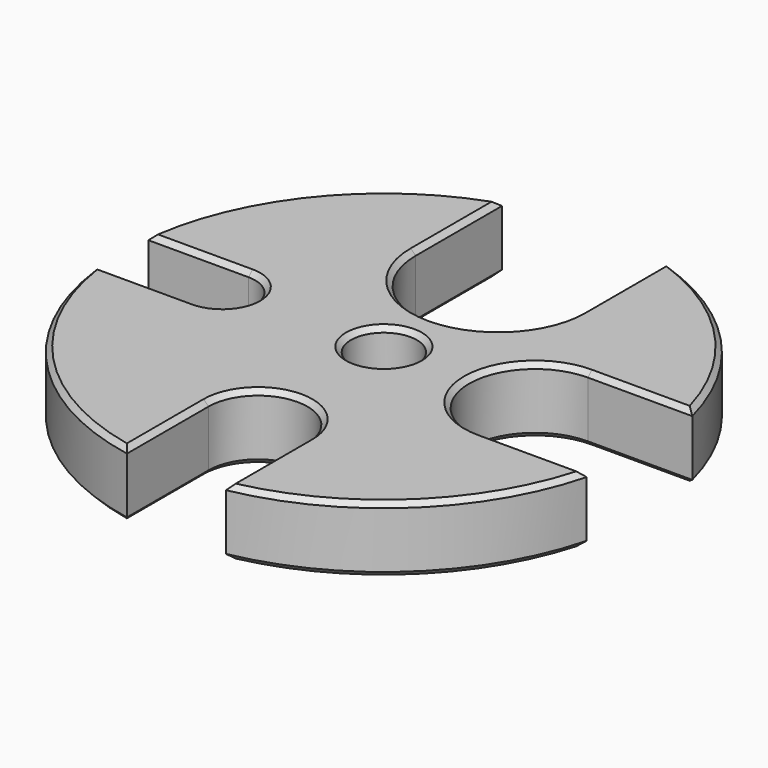
from build123d import *

# Parameters (mm, degrees)
F0_R     = 12.7
F1_DEPTH = 25.4
F2_SIZE2 = 1.905
F2_SIZE  = 1.905


with BuildPart() as f1:
    # F0 (on Top) → F1 (new body)
    with BuildSketch(Plane.XY):
        with BuildLine():
            Line((-31.75, 54.992613), (-31.75, 96.511644))
            ThreePointArc((-31.75, 96.511644), (-78.413523, 64.605567), (-100.803125, 12.7))
            Line((-100.803125, 12.7), (-62.217039, 12.7))
            ThreePointArc((-62.217039, 12.7), (-49.517039, 0), (-62.217039, -12.7))
            Line((-62.217039, -12.7), (-100.803125, -12.7))
            ThreePointArc((-100.803125, -12.7), (-74.079092, -69.533072), (-19.05, -99.798084))
            Line((-19.05, -99.798084), (-19.05, -60.575139))
            ThreePointArc((-19.05, -60.575139), (0, -41.525139), (19.05, -60.575139))
            Line((19.05, -60.575139), (19.05, -99.798084))
            ThreePointArc((19.05, -99.798084), (69.504349, -74.106042), (98.373777, -25.4))
            Line((98.373777, -25.4), (58.198711, -25.4))
            ThreePointArc((58.198711, -25.4), (32.798711, 0), (58.198711, 25.4))
            Line((58.198711, 25.4), (98.373777, 25.4))
            ThreePointArc((98.373777, 25.4), (74.143549, 69.464337), (31.75, 96.511644))
            Line((31.75, 96.511644), (31.75, 54.992613))
            ThreePointArc((31.75, 54.992613), (0, 23.242613), (-31.75, 54.992613))
        make_face()
        Circle(F0_R, mode=Mode.SUBTRACT)
    extrude(amount=-F1_DEPTH)

    # F2
    f2_edges = [f1.edges().sort_by_distance(p)[0] for p in [
        (-31.75, 75.752129, 0),
        (-78.413523, 64.605567, 0),
        (-81.510082, 12.7, 0),
        (-49.517039, 0, 0),
        (-81.510082, -12.7, 0),
        (-74.079092, -69.533072, 0),
        (-19.05, -80.186611, 0),
        (0, -41.525139, 0),
        (19.05, -80.186611, 0),
        (69.504349, -74.106042, 0),
        (78.286244, -25.4, 0),
        (32.798711, 0, 0),
        (78.286244, 25.4, 0),
        (74.143549, 69.464337, 0),
        (31.75, 75.752129, 0),
        (0, 23.242613, 0),
        (-12.7, 0, 0),
        (-31.75, 75.752129, -25.4),
        (-78.413523, 64.605567, -25.4),
        (-81.510082, 12.7, -25.4),
        (-49.517039, 0, -25.4),
        (-81.510082, -12.7, -25.4),
        (-74.079092, -69.533072, -25.4),
        (-19.05, -80.186611, -25.4),
        (0, -41.525139, -25.4),
        (19.05, -80.186611, -25.4),
        (69.504349, -74.106042, -25.4),
        (78.286244, -25.4, -25.4),
        (32.798711, 0, -25.4),
        (78.286244, 25.4, -25.4),
        (74.143549, 69.464337, -25.4),
        (31.75, 75.752129, -25.4),
        (0, 23.242613, -25.4),
        (-12.7, 0, -25.4),
    ]]
    chamfer(f2_edges, length=F2_SIZE, length2=F2_SIZE2)


solid = f1.part
